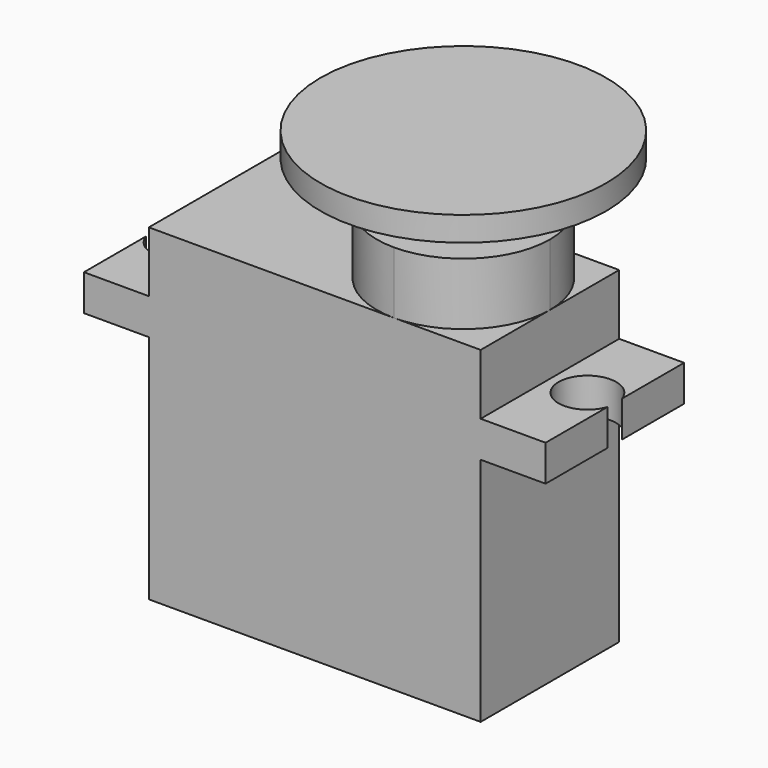
from build123d import *

# Parameters (mm, degrees)
F0_R          = 2.425
F1_DEPTH      = 16
F1_DEPTH_BACK = 6.7
F2_DEPTH      = 2.5
F3_DEPTH      = 11
F4_DEPTH      = 14
F5_R          = 3.5
F5_R_2        = 2.425
F6_DEPTH      = 2.5
F5_R_3        = 9.9
F7_DEPTH      = 1.7


with BuildPart() as f1:
    # F0 (on Top) → F1 (new body, two sides)
    with BuildSketch(Plane.XY) as f1_sk:
        with BuildLine():
            Line((1.67e-08, 6), (-17, 6))
            Line((-17, 6), (-17, -6))
            Line((-17, -6), (0, -6))
            ThreePointArc((0, -6), (-6, 8.4e-09), (1.67e-08, 6))
        make_face()
        with BuildLine():
            ThreePointArc((6, 0), (4.242640693, 4.2426406812), (1.67e-08, 6))
            ThreePointArc((1.67e-08, 6), (-6, 8.4e-09), (0, -6))
            ThreePointArc((0, -6), (4.2426406871, -4.2426406871), (6, 0))
        make_face()
        Circle(F0_R, mode=Mode.SUBTRACT)
        Circle(F0_R)
        with BuildLine():
            Line((6, 6), (1.67e-08, 6))
            ThreePointArc((1.67e-08, 6), (4.242640693, 4.2426406812), (6, 0))
            Line((6, 0), (6, 6))
        make_face()
        with BuildLine():
            Line((6, -6), (6, 0))
            ThreePointArc((6, 0), (4.2426406871, -4.2426406871), (0, -6))
            Line((0, -6), (6, -6))
        make_face()
    extrude(amount=-F1_DEPTH)
    extrude(f1_sk.sketch, amount=F1_DEPTH_BACK)

    # F0 (on Top) → F2 (join)
    with BuildSketch(Plane.XY):
        with BuildLine():
            Line((-17, -6), (-17, 6))
            Line((-17, 6), (-21.5, 6))
            Line((-21.5, 6), (-21.5, 0.6244997998))
            ThreePointArc((-21.5, 0.6244997998), (-17.6, 0), (-21.5, -0.6244997998))
            Line((-21.5, -0.6244997998), (-21.5, -6))
            Line((-21.5, -6), (-17, -6))
        make_face()
        with BuildLine():
            Line((10.5, 6), (6, 6))
            Line((6, 6), (6, 0))
            Line((6, 0), (6, -6))
            Line((6, -6), (10.5, -6))
            Line((10.5, -6), (10.5, -0.6244997998))
            ThreePointArc((10.5, -0.6244997998), (6.6, 0), (10.5, 0.6244997998))
            Line((10.5, 0.6244997998), (10.5, 6))
        make_face()
    extrude(amount=F2_DEPTH)

    # F0 (on Top) → F3 (join)
    with BuildSketch(Plane.XY):
        with BuildLine():
            ThreePointArc((6, 0), (4.242640693, 4.2426406812), (1.67e-08, 6))
            ThreePointArc((1.67e-08, 6), (-6, 8.4e-09), (0, -6))
            ThreePointArc((0, -6), (4.2426406871, -4.2426406871), (6, 0))
        make_face()
        Circle(F0_R, mode=Mode.SUBTRACT)
        Circle(F0_R)
    extrude(amount=F3_DEPTH)

    # F0 (on Top) → F4 (join)
    with BuildSketch(Plane.XY):
        Circle(F0_R)
    extrude(amount=F4_DEPTH)


with BuildPart() as f6:
    # F5 (on face) → F6 (new body)
    with BuildSketch(Plane.XY.offset(14)):
        Circle(F5_R)
        Circle(F5_R_2, mode=Mode.SUBTRACT)
    extrude(amount=-F6_DEPTH)

    # F5 (on face) → F7 (join)
    with BuildSketch(Plane.XY.offset(14)):
        Circle(F5_R_3)
        Circle(F5_R, mode=Mode.SUBTRACT)
        Circle(F5_R)
        Circle(F5_R_2, mode=Mode.SUBTRACT)
        Circle(F5_R_2)
    extrude(amount=F7_DEPTH)


solid = Compound([f1.part, f6.part])
